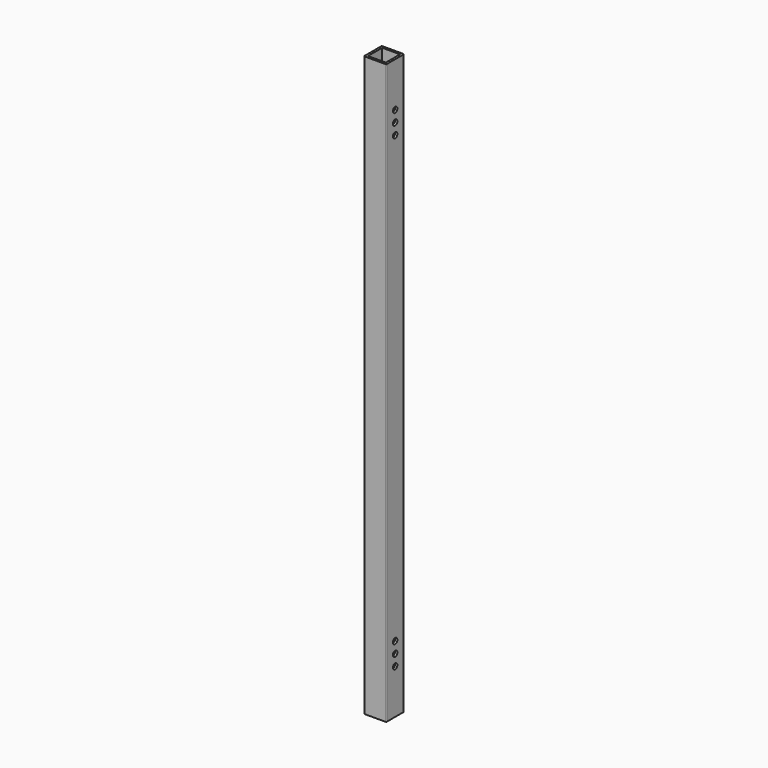
from build123d import *

# Parameters (mm, degrees)
F0_W     = 25.4
F0_H     = 25.4
F0_W_2   = 20.32
F0_H_2   = 20.32
F1_DEPTH = 660.4
F4_D     = 6.35
F5_R     = 0.762


with BuildPart() as f1:
    # F0 (on Top) → F1 (new body)
    with BuildSketch(Plane.XY):
        Rectangle(F0_W, F0_H)
        Rectangle(F0_W_2, F0_H_2, mode=Mode.SUBTRACT)
    extrude(amount=F1_DEPTH)

    # F4 (through all)
    with Locations(Plane.YZ.offset(12.7)):
        with Locations((0, 609.6), (0, 596.9), (0, 584.2), (0, 76.2), (0, 63.5), (0, 50.8)):
            Hole(F4_D / 2)

    # F5
    f5_edges = [f1.edges().sort_by_distance(p)[0] for p in [
        (12.7, 12.7, 330.2),
        (-12.7, 12.7, 330.2),
        (12.7, -12.7, 330.2),
        (-12.7, -12.7, 330.2),
    ]]
    fillet(f5_edges, radius=F5_R)


solid = f1.part
